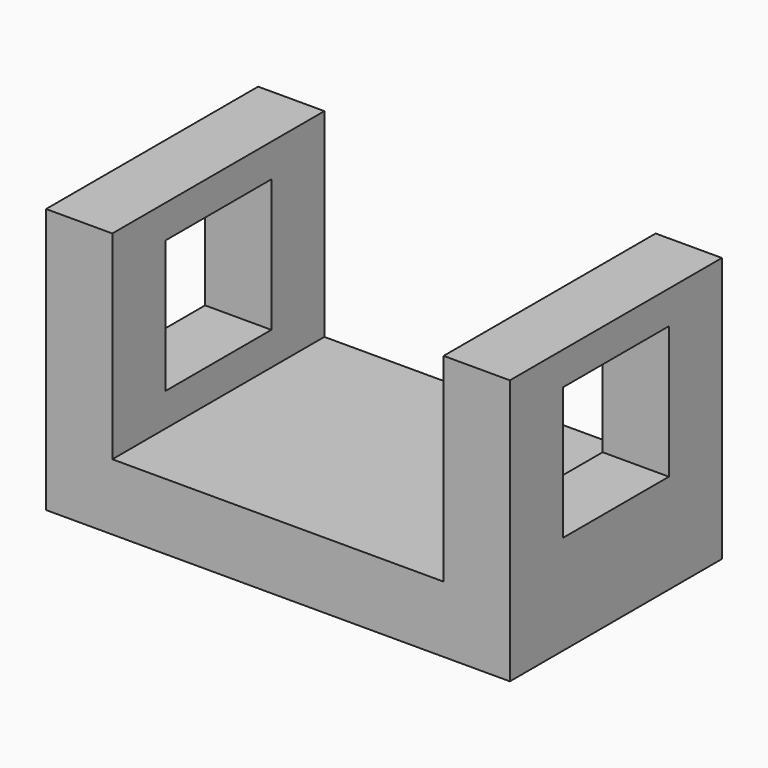
from build123d import *

# Parameters (mm, degrees)
F0_W     = 50.8
F0_H     = 50.8
F0_W_2   = 25.4
F0_H_2   = 25.4
F1_DEPTH = 88.9
F2_W     = 63.5
F2_H     = 38.1
F3_DEPTH = 152.4


with BuildPart() as f1:
    # F0 (on Right) → F1 (new body)
    with BuildSketch(Plane.YZ):
        with Locations((-12.443417, 12.232188)):
            Rectangle(F0_W, F0_H)
        with Locations((-12.443417, 18.582188)):
            Rectangle(F0_W_2, F0_H_2, mode=Mode.SUBTRACT)
    extrude(amount=-F1_DEPTH)

    # F2 (on face) → F3 (cut)
    with BuildSketch(Plane(origin=(0, 12.956583, 0), x_dir=(-1, 0, 0), z_dir=(0, 1, 0))):
        with Locations((44.45, 18.582188)):
            Rectangle(F2_W, F2_H)
    extrude(amount=-F3_DEPTH, mode=Mode.SUBTRACT)


solid = f1.part
